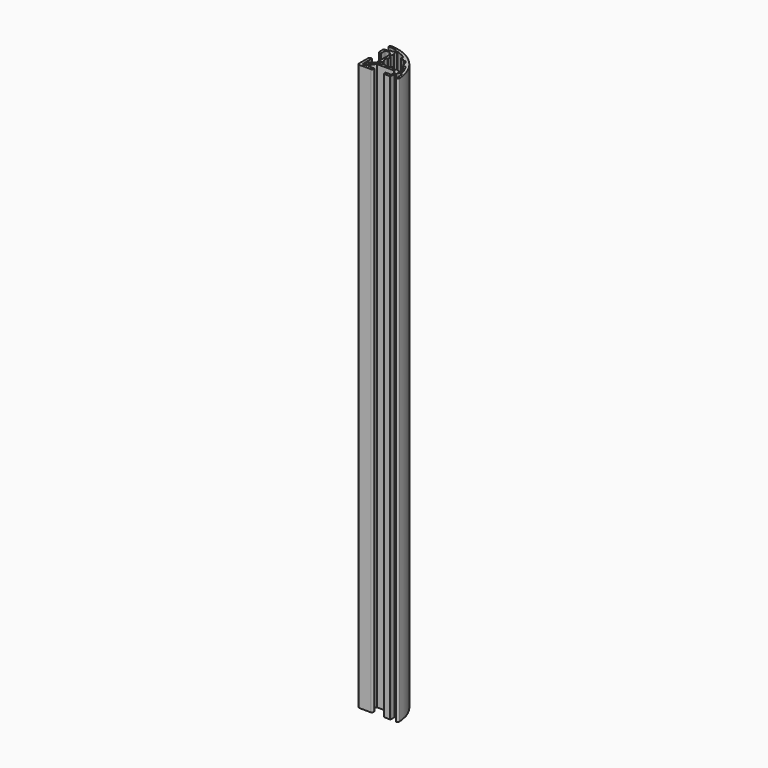
from build123d import *

# Parameters (mm, degrees)
PAD_DEPTH = 420


with BuildPart() as part:
    # Sketch155 → Pad (new body)
    with BuildSketch(Plane.XY):
        with BuildLine():
            ThreePointArc((24.7, 3.999987), (24.487868, 3.912119), (24.4, 3.699987))
            Line((24.4, 0.499987), (24.4, 3.699987))
            ThreePointArc((23.9, -1.3e-05), (24.253553, 0.146434), (24.4, 0.499987))
            Line((20.15, -1.3e-05), (23.9, -1.3e-05))
            ThreePointArc((19.15, 0.999987), (19.442893, 0.29288), (20.15, -1.3e-05))
            Line((19.15, 1.899987), (19.15, 0.999987))
            ThreePointArc((19.25, 1.999987), (19.179289, 1.970698), (19.15, 1.899987))
            Line((23.1, 1.999987), (19.25, 1.999987))
            ThreePointArc((23.1, 1.999987), (23.312132, 2.087855), (23.4, 2.299987))
            Line((23.4, 4.920088), (23.4, 2.299987))
            ThreePointArc((23.4, 4.920088), (23.377163, 5.034893), (23.312132, 5.13222))
            Line((21.432241, 7.012128), (23.312132, 5.13222))
            ThreePointArc((21.432241, 7.012128), (21.334909, 7.077163), (21.220099, 7.1))
            Line((8.779945, 7.1), (21.220099, 7.1))
            ThreePointArc((8.779945, 7.1), (8.665136, 7.077163), (8.567805, 7.012129))
            Line((6.087868, 4.53222), (8.567805, 7.012129))
            ThreePointArc((6.087868, 4.53222), (6.022836, 4.434893), (6, 4.320088))
            Line((6, 2.299987), (6, 4.320088))
            ThreePointArc((6, 2.299987), (6.087868, 2.087855), (6.3, 1.999987))
            Line((10.749999, 1.999987), (6.3, 1.999987))
            ThreePointArc((10.852331, 1.897654), (10.822359, 1.970014), (10.749999, 1.999987))
            Line((10.852331, 1.000123), (10.852331, 1.897654))
            ThreePointArc((9.849999, -7e-06), (10.57528, 0.27545), (10.852331, 1.000123))
            Line((1.5, -7e-06), (9.849999, -7e-06))
            ThreePointArc((6e-06, 1.499987), (0.439346, 0.439333), (1.5, -7e-06))
            Line((6e-06, 9.849987), (6e-06, 1.499987))
            ThreePointArc((1.000006, 10.849987), (0.292899, 10.557094), (6e-06, 9.849987))
            Line((1.9, 10.849987), (1.000006, 10.849987))
            ThreePointArc((2, 10.749987), (1.97071, 10.820698), (1.9, 10.849987))
            Line((2, 6.299987), (2, 10.749987))
            ThreePointArc((2, 6.299987), (2.087868, 6.087855), (2.3, 5.999987))
            Line((4.3201, 5.999987), (2.3, 5.999987))
            ThreePointArc((4.3201, 5.999987), (4.434905, 6.022823), (4.532232, 6.087855))
            Line((7.012132, 8.567868), (4.532232, 6.087855))
            ThreePointArc((7.012132, 8.567868), (7.077164, 8.665195), (7.1, 8.78))
            Line((7.1, 21.22), (7.1, 8.78))
            ThreePointArc((7.1, 21.22), (7.077164, 21.334805), (7.012132, 21.432132))
            Line((5.132232, 23.312119), (7.012132, 21.432132))
            ThreePointArc((5.132232, 23.312119), (5.034905, 23.377151), (4.9201, 23.399987))
            Line((2.3, 23.399987), (4.9201, 23.399987))
            ThreePointArc((2.3, 23.399987), (2.087868, 23.312119), (2, 23.099987))
            Line((2, 19.249987), (2, 23.099987))
            ThreePointArc((1.9, 19.149987), (1.97071, 19.179276), (2, 19.249987))
            Line((1, 19.149987), (1.9, 19.149987))
            ThreePointArc((0, 20.149987), (0.292893, 19.44288), (1, 19.149987))
            Line((0, 23.899987), (0, 20.149987))
            ThreePointArc((0.5, 24.399987), (0.146446, 24.25354), (0, 23.899987))
            Line((3.7, 24.399987), (0.5, 24.399987))
            ThreePointArc((3.7, 24.399987), (3.912132, 24.487855), (4, 24.699987))
            Line((4, 24.846035), (4, 24.699987))
            ThreePointArc((4.3, 25.146035), (4.087868, 25.058167), (4, 24.846035))
            Line((6.2, 25.146035), (4.3, 25.146035))
            ThreePointArc((6.2, 25.146035), (6.412132, 25.233903), (6.5, 25.446035))
            Line((6.5, 27.530728), (6.5, 25.446035))
            ThreePointArc((6.5, 27.530728), (6.434573, 27.717745), (6.26683, 27.823189))
            ThreePointArc((6.26683, 27.823189), (3.877382, 28.263567), (1.459221, 28.499987))
            Line((0, 28.499987), (1.459221, 28.499987))
            ThreePointArc((1.500018, 29.999987), (0.439346, 29.560654), (0, 28.499987))
            ThreePointArc((29.998561, 1.499987), (21.208801, 21.20922), (1.500018, 29.999987))
            ThreePointArc((28.499116, -0.040792), (29.574097, 0.413065), (29.998561, 1.499987))
            Line((28.499116, 1.459208), (28.499116, -0.040792))
            ThreePointArc((28.499116, 1.459208), (28.26269, 3.877361), (27.822301, 6.266801))
            ThreePointArc((27.822301, 6.266801), (27.716884, 6.4345), (27.529915, 6.49991))
            Line((25.445972, 6.49991), (27.529915, 6.49991))
            ThreePointArc((25.445972, 6.49991), (25.233894, 6.412064), (25.146048, 6.199986))
            Line((25.146048, 4.299987), (25.146048, 6.199986))
            ThreePointArc((24.846048, 3.999987), (25.05818, 4.087855), (25.146048, 4.299987))
            Line((24.7, 3.999987), (24.846048, 3.999987))
        make_face()
        with BuildLine():
            ThreePointArc((5, 4.699987), (4.912132, 4.912119), (4.7, 4.999987))
            Line((4.7, 4.999987), (2.3, 4.999987))
            ThreePointArc((2.3, 4.999987), (2.087868, 4.912119), (2, 4.699987))
            Line((2, 4.699987), (2, 2.299987))
            ThreePointArc((2, 2.299987), (2.087868, 2.087855), (2.3, 1.999987))
            Line((2.3, 1.999987), (4.7, 1.999987))
            ThreePointArc((4.7, 1.999987), (4.912132, 2.087855), (5, 2.299987))
            Line((5, 2.299987), (5, 4.699987))
        make_face(mode=Mode.SUBTRACT)
        with BuildLine():
            ThreePointArc((8.805179, 16.756162), (8.752301, 16.732205), (8.721642, 16.682909))
            ThreePointArc((8.721642, 16.682909), (8.555648, 15.848714), (8.5, 14.999987))
            ThreePointArc((8.5, 14.999987), (8.555648, 14.15126), (8.721642, 13.317065))
            ThreePointArc((8.721642, 13.317065), (8.752301, 13.267769), (8.80518, 13.243812))
            Line((8.80518, 13.243812), (9.164772, 13.19647))
            ThreePointArc((9.246813, 13.128263), (9.215649, 13.174222), (9.164772, 13.19647))
            ThreePointArc((9.246813, 13.128263), (9.501361, 12.476601), (9.829439, 11.858681))
            ThreePointArc((9.699833, 11.431022), (9.860152, 11.615904), (9.829439, 11.858681))
            Line((9.699833, 11.431022), (8.606194, 10.92105))
            ThreePointArc((8.606194, 10.92105), (8.486541, 10.820237), (8.43392, 10.67289))
            Line((8.43392, 10.67289), (8.288026, 8.834422))
            ThreePointArc((8.288026, 8.834422), (8.435625, 8.438616), (8.833645, 8.297099))
            Line((8.833645, 8.297099), (10.695819, 8.473623))
            ThreePointArc((10.695819, 8.473623), (10.840469, 8.527164), (10.939399, 8.645499))
            Line((10.939399, 8.645499), (11.431037, 9.699819))
            ThreePointArc((11.858696, 9.829425), (11.615919, 9.860138), (11.431037, 9.699819))
            ThreePointArc((11.858696, 9.829425), (12.476615, 9.501348), (13.128277, 9.2468))
            ThreePointArc((13.196484, 9.164759), (13.174236, 9.215636), (13.128277, 9.2468))
            Line((13.196484, 9.164759), (13.243825, 8.805167))
            ThreePointArc((13.243825, 8.805167), (13.267783, 8.752288), (13.317079, 8.721629))
            ThreePointArc((13.317079, 8.721629), (14.151273, 8.555636), (15, 8.499987))
            ThreePointArc((15, 8.499987), (15.848727, 8.555636), (16.682922, 8.721629))
            ThreePointArc((16.682922, 8.721629), (16.732218, 8.752288), (16.756175, 8.805167))
            Line((16.756175, 8.805167), (16.803516, 9.164759))
            ThreePointArc((16.871723, 9.246801), (16.825764, 9.215636), (16.803516, 9.164759))
            ThreePointArc((16.871723, 9.246801), (17.523386, 9.501349), (18.141305, 9.829426))
            ThreePointArc((18.568965, 9.69982), (18.384082, 9.86014), (18.141305, 9.829426))
            Line((18.568965, 9.69982), (19.078937, 8.606182))
            ThreePointArc((19.078937, 8.606182), (19.17975, 8.486529), (19.327097, 8.433907))
            Line((19.327097, 8.433907), (21.165565, 8.288013))
            ThreePointArc((21.165565, 8.288013), (21.56137, 8.435612), (21.702887, 8.833632))
            Line((21.702887, 8.833632), (21.674836, 9.129548))
            ThreePointArc((22.185629, 9.369992), (21.845727, 9.429291), (21.674836, 9.129548))
            Line((22.185629, 9.369992), (23.467766, 8.087855))
            ThreePointArc((23.467766, 8.087855), (23.565093, 8.022823), (23.679898, 7.999987))
            Line((23.679898, 7.999987), (26.441281, 7.999987))
            ThreePointArc((26.441281, 7.999987), (26.683348, 8.122776), (26.72726, 8.390629))
            ThreePointArc((26.72726, 8.390629), (25.434276, 11.720311), (23.730217, 14.859541))
            ThreePointArc((23.730217, 14.859541), (23.621309, 14.962538), (23.476165, 14.999987))
            Line((23.476165, 14.999987), (21.793379, 14.999987))
            ThreePointArc((21.493671, 15.286752), (21.585979, 15.083226), (21.793379, 14.999987))
            ThreePointArc((21.493671, 15.286752), (21.424055, 15.990697), (21.278357, 16.682909))
            ThreePointArc((21.278357, 16.682909), (21.247698, 16.732205), (21.19482, 16.756162))
            Line((21.19482, 16.756162), (20.835227, 16.803504))
            ThreePointArc((20.753186, 16.87171), (20.78435, 16.825752), (20.835227, 16.803504))
            ThreePointArc((20.753186, 16.87171), (20.498638, 17.523373), (20.17056, 18.141293))
            ThreePointArc((20.300166, 18.568952), (20.139847, 18.38407), (20.17056, 18.141293))
            Line((20.300166, 18.568952), (20.387183, 18.609529))
            ThreePointArc((20.387183, 18.609529), (20.554883, 18.824164), (20.479824, 19.085999))
            ThreePointArc((20.479824, 19.085999), (19.795115, 19.795105), (19.08601, 20.479813))
            ThreePointArc((19.08601, 20.479813), (18.824174, 20.554872), (18.609539, 20.387172))
            Line((18.609539, 20.387172), (18.568962, 20.300155))
            ThreePointArc((18.141303, 20.170549), (18.38408, 20.139836), (18.568962, 20.300155))
            ThreePointArc((18.141303, 20.170549), (17.523384, 20.498626), (16.871722, 20.753173))
            ThreePointArc((16.803515, 20.835215), (16.825763, 20.784338), (16.871722, 20.753173))
            Line((16.803515, 20.835215), (16.756174, 21.194807))
            ThreePointArc((16.756174, 21.194807), (16.732217, 21.247686), (16.682921, 21.278345))
            ThreePointArc((16.682921, 21.278345), (15.990709, 21.424043), (15.286764, 21.493658))
            ThreePointArc((15, 21.793366), (15.083239, 21.585966), (15.286764, 21.493658))
            Line((15, 21.793366), (15, 23.476152))
            ThreePointArc((15, 23.476152), (14.962551, 23.621296), (14.859554, 23.730204))
            ThreePointArc((14.859554, 23.730204), (11.720323, 25.434265), (8.390642, 26.727251))
            ThreePointArc((8.390642, 26.727251), (8.122789, 26.683338), (8, 26.441272))
            Line((8, 26.441272), (8, 23.679885))
            ThreePointArc((8, 23.679885), (8.022836, 23.56508), (8.087868, 23.467753))
            Line((8.087868, 23.467753), (9.370004, 22.185617))
            ThreePointArc((9.129561, 21.674823), (9.429304, 21.845715), (9.370004, 22.185617))
            Line((9.129561, 21.674823), (8.833645, 21.702875))
            ThreePointArc((8.833645, 21.702875), (8.435625, 21.561358), (8.288026, 21.165552))
            Line((8.288026, 21.165552), (8.43392, 19.327084))
            ThreePointArc((8.43392, 19.327084), (8.486541, 19.179737), (8.606194, 19.078924))
            Line((8.606194, 19.078924), (9.699833, 18.568952))
            ThreePointArc((9.829439, 18.141293), (9.860152, 18.38407), (9.699833, 18.568952))
            ThreePointArc((9.829439, 18.141293), (9.501361, 17.523373), (9.246813, 16.87171))
            ThreePointArc((9.164772, 16.803504), (9.215649, 16.825752), (9.246813, 16.87171))
            Line((9.164772, 16.803504), (8.805179, 16.756162))
        make_face(mode=Mode.SUBTRACT)
    extrude(amount=PAD_DEPTH)


solid = part.part
